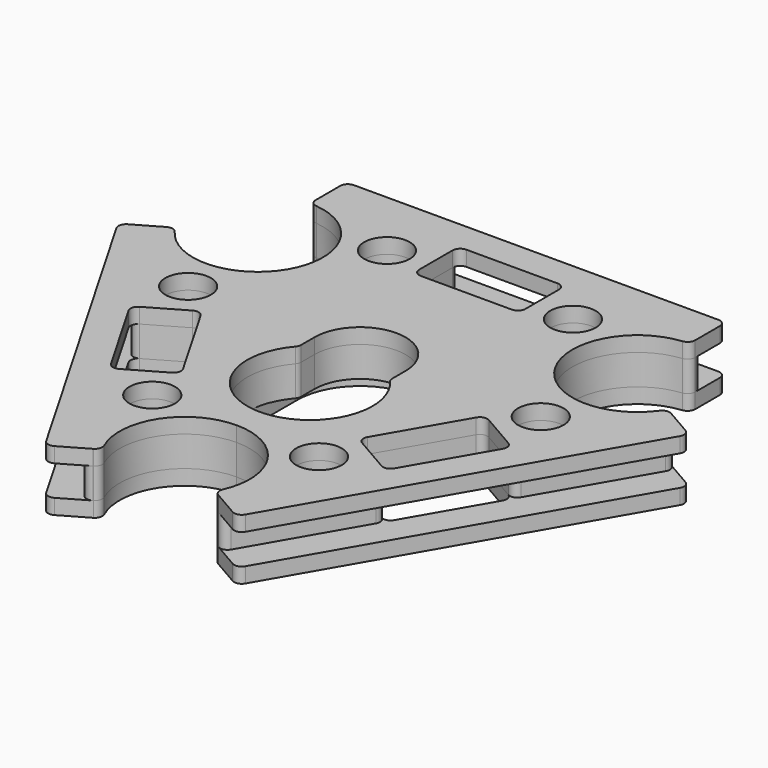
from build123d import *

# Parameters (mm, degrees)
F0_R     = 3
F1_DEPTH = 4
F2_R     = 3
F3_DEPTH = 2
F4_R     = 2.1
F5_DEPTH = 2


with BuildPart() as f1:
    # F0 (on Top) → F1 (new body)
    with BuildSketch(Plane.XY):
        with BuildLine():
            Line((-8, 25), (-24, 25))
            ThreePointArc((-24, 25), (-24.707107, 24.707107), (-25, 24))
            Line((-25, 24), (-25, 23.947589))
            ThreePointArc((-25, 23.947589), (-24.743147, 23.278461), (-24.104534, 22.953068))
            ThreePointArc((-24.104534, 22.953068), (-17.36741, 18.322728), (-17.581416, 10.150635))
            ThreePointArc((-17.581416, 10.150635), (-24.551653, 5.879255), (-31.930207, 9.398605))
            ThreePointArc((-31.930207, 9.398605), (-32.531312, 9.788963), (-33.239221, 9.67684))
            Line((-33.239221, 9.67684), (-33.28461, 9.650635))
            ThreePointArc((-33.28461, 9.650635), (-33.750536, 9.043429), (-33.650635, 8.28461))
            Line((-33.650635, 8.28461), (-25.650635, -5.571797))
            ThreePointArc((-25.650635, -5.571797), (-25.043429, -6.037723), (-24.28461, -5.937822))
            Line((-24.28461, -5.937822), (-19.52147, -3.187822))
            ThreePointArc((-19.52147, -3.187822), (-18.762651, -3.087922), (-18.155445, -3.553848))
            Line((-18.155445, -3.553848), (-15.155445, -8.75))
            Line((-15.155445, -8.75), (-12.155445, -13.946152))
            ThreePointArc((-12.155445, -13.946152), (-12.055544, -14.704971), (-12.52147, -15.312178))
            Line((-12.52147, -15.312178), (-17.28461, -18.062178))
            ThreePointArc((-17.28461, -18.062178), (-17.750536, -18.669384), (-17.650635, -19.428203))
            Line((-17.650635, -19.428203), (-9.650635, -33.28461))
            ThreePointArc((-9.650635, -33.28461), (-9.043429, -33.750536), (-8.28461, -33.650635))
            Line((-8.28461, -33.650635), (-8.239221, -33.62443))
            ThreePointArc((-8.239221, -33.62443), (-7.788165, -33.067424), (-7.825673, -32.351673))
            ThreePointArc((-7.825673, -32.351673), (-7.184243, -24.201982), (0, -20.30127))
            ThreePointArc((0, -20.30127), (7.184243, -24.201982), (7.825673, -32.351673))
            ThreePointArc((7.825673, -32.351673), (7.788165, -33.067424), (8.239221, -33.62443))
            Line((8.239221, -33.62443), (8.28461, -33.650635))
            ThreePointArc((8.28461, -33.650635), (9.043429, -33.750536), (9.650635, -33.28461))
            Line((9.650635, -33.28461), (17.650635, -19.428203))
            ThreePointArc((17.650635, -19.428203), (17.750536, -18.669384), (17.28461, -18.062178))
            Line((17.28461, -18.062178), (12.52147, -15.312178))
            ThreePointArc((12.52147, -15.312178), (12.055544, -14.704971), (12.155445, -13.946152))
            Line((12.155445, -13.946152), (15.155445, -8.75))
            Line((15.155445, -8.75), (18.155445, -3.553848))
            ThreePointArc((18.155445, -3.553848), (18.762651, -3.087922), (19.52147, -3.187822))
            Line((19.52147, -3.187822), (24.28461, -5.937822))
            ThreePointArc((24.28461, -5.937822), (25.043429, -6.037723), (25.650635, -5.571797))
            Line((25.650635, -5.571797), (33.650635, 8.28461))
            ThreePointArc((33.650635, 8.28461), (33.750536, 9.043429), (33.28461, 9.650635))
            Line((33.28461, 9.650635), (33.239221, 9.67684))
            ThreePointArc((33.239221, 9.67684), (32.531312, 9.788963), (31.930207, 9.398605))
            ThreePointArc((31.930207, 9.398605), (24.551653, 5.879255), (17.581416, 10.150635))
            ThreePointArc((17.581416, 10.150635), (17.36741, 18.322728), (24.104534, 22.953068))
            ThreePointArc((24.104534, 22.953068), (24.743147, 23.278461), (25, 23.947589))
            Line((25, 23.947589), (25, 24))
            ThreePointArc((25, 24), (24.707107, 24.707107), (24, 25))
            Line((24, 25), (8, 25))
            ThreePointArc((8, 25), (7.292893, 24.707107), (7, 24))
            Line((7, 24), (7, 18.5))
            ThreePointArc((7, 18.5), (6.707107, 17.792893), (6, 17.5))
            Line((6, 17.5), (0, 17.5))
            Line((0, 17.5), (-6, 17.5))
            ThreePointArc((-6, 17.5), (-6.707107, 17.792893), (-7, 18.5))
            Line((-7, 18.5), (-7, 24))
            ThreePointArc((-7, 24), (-7.292893, 24.707107), (-8, 25))
        make_face()
        with Locations((-10.980365, -20.483446)):
            Circle(F0_R, mode=Mode.SUBTRACT)
        with Locations((10.980365, -20.483446)):
            Circle(F0_R, mode=Mode.SUBTRACT)
        with BuildLine():
            ThreePointArc((-6, 0), (0, 6), (6, 0))
            Line((6, 0), (6, -2.203307))
            ThreePointArc((6, -2.203307), (6.062782, -2.55205), (6.243243, -2.857003))
            ThreePointArc((6.243243, -2.857003), (0, -16.5), (-6.243243, -2.857003))
            ThreePointArc((-6.243243, -2.857003), (-6.062782, -2.55205), (-6, -2.203307))
            Line((-6, -2.203307), (-6, 0))
        make_face(mode=Mode.SUBTRACT)
        with Locations((-23.229367, 0.732448)):
            Circle(F0_R, mode=Mode.SUBTRACT)
        with Locations((-12.249002, 19.750998)):
            Circle(F0_R, mode=Mode.SUBTRACT)
        with Locations((23.229367, 0.732448)):
            Circle(F0_R, mode=Mode.SUBTRACT)
        with Locations((12.249002, 19.750998)):
            Circle(F0_R, mode=Mode.SUBTRACT)
    extrude(amount=F1_DEPTH)


with BuildPart() as f3:
    # F2 (on face) → F3 (new body)
    with BuildSketch(Plane.XY.offset(4)):
        with BuildLine():
            ThreePointArc((-24.104534, 22.953068), (-17.36741, 18.322728), (-17.581416, 10.150635))
            ThreePointArc((-17.581416, 10.150635), (-24.551653, 5.879255), (-31.930207, 9.398605))
            ThreePointArc((-31.930207, 9.398605), (-31.930249, 9.398662), (-31.93029, 9.398719))
            ThreePointArc((-31.93029, 9.398719), (-32.531291, 9.789021), (-33.239084, 9.676919))
            Line((-33.239084, 9.676919), (-33.239221, 9.67684))
            Line((-33.239221, 9.67684), (-33.28461, 9.650635))
            ThreePointArc((-33.28461, 9.650635), (-33.750536, 9.043429), (-33.650635, 8.28461))
            Line((-33.650635, 8.28461), (-25.650635, -5.571797))
            ThreePointArc((-25.650635, -5.571797), (-25.043429, -6.037723), (-24.28461, -5.937822))
            Line((-24.28461, -5.937822), (-19.52147, -3.187822))
            ThreePointArc((-19.52147, -3.187822), (-18.762651, -3.087922), (-18.155445, -3.553848))
            Line((-18.155445, -3.553848), (-15.155445, -8.75))
            Line((-15.155445, -8.75), (-12.155445, -13.946152))
            ThreePointArc((-12.155445, -13.946152), (-12.055544, -14.704971), (-12.52147, -15.312178))
            Line((-12.52147, -15.312178), (-17.28461, -18.062178))
            ThreePointArc((-17.28461, -18.062178), (-17.750536, -18.669384), (-17.650635, -19.428203))
            Line((-17.650635, -19.428203), (-9.650635, -33.28461))
            ThreePointArc((-9.650635, -33.28461), (-9.043429, -33.750536), (-8.28461, -33.650635))
            Line((-8.28461, -33.650635), (-8.239221, -33.62443))
            Line((-8.239221, -33.62443), (-8.239084, -33.624351))
            ThreePointArc((-8.239084, -33.624351), (-7.788105, -33.067435), (-7.825615, -32.351802))
            ThreePointArc((-7.825615, -32.351802), (-7.825644, -32.351738), (-7.825673, -32.351673))
            ThreePointArc((-7.825673, -32.351673), (-7.184243, -24.201982), (0, -20.30127))
            ThreePointArc((0, -20.30127), (7.184243, -24.201982), (7.825673, -32.351673))
            ThreePointArc((7.825673, -32.351673), (7.825644, -32.351738), (7.825615, -32.351802))
            ThreePointArc((7.825615, -32.351802), (7.788105, -33.067435), (8.239084, -33.624351))
            Line((8.239084, -33.624351), (8.239221, -33.62443))
            Line((8.239221, -33.62443), (8.28461, -33.650635))
            ThreePointArc((8.28461, -33.650635), (9.043429, -33.750536), (9.650635, -33.28461))
            Line((9.650635, -33.28461), (17.650635, -19.428203))
            ThreePointArc((17.650635, -19.428203), (17.750536, -18.669384), (17.28461, -18.062178))
            Line((17.28461, -18.062178), (12.52147, -15.312178))
            ThreePointArc((12.52147, -15.312178), (12.055544, -14.704971), (12.155445, -13.946152))
            Line((12.155445, -13.946152), (15.155445, -8.75))
            Line((15.155445, -8.75), (18.155445, -3.553848))
            ThreePointArc((18.155445, -3.553848), (18.762651, -3.087922), (19.52147, -3.187822))
            Line((19.52147, -3.187822), (24.28461, -5.937822))
            ThreePointArc((24.28461, -5.937822), (25.043429, -6.037723), (25.650635, -5.571797))
            Line((25.650635, -5.571797), (33.650635, 8.28461))
            ThreePointArc((33.650635, 8.28461), (33.750536, 9.043429), (33.28461, 9.650635))
            Line((33.28461, 9.650635), (33.239221, 9.67684))
            Line((33.239221, 9.67684), (33.239084, 9.676919))
            ThreePointArc((33.239084, 9.676919), (32.531291, 9.789021), (31.93029, 9.398719))
            ThreePointArc((31.93029, 9.398719), (31.930249, 9.398662), (31.930207, 9.398605))
            ThreePointArc((31.930207, 9.398605), (24.551653, 5.879255), (17.581416, 10.150635))
            ThreePointArc((17.581416, 10.150635), (17.36741, 18.322728), (24.104534, 22.953068))
            ThreePointArc((24.104534, 22.953068), (24.104605, 22.953075), (24.104675, 22.953083))
            ThreePointArc((24.104675, 22.953083), (24.743186, 23.278414), (25, 23.947431))
            Line((25, 23.947431), (25, 23.947589))
            Line((25, 23.947589), (25, 24))
            ThreePointArc((25, 24), (24.707107, 24.707107), (24, 25))
            Line((24, 25), (8, 25))
            ThreePointArc((8, 25), (7.292893, 24.707107), (7, 24))
            Line((7, 24), (7, 18.5))
            ThreePointArc((7, 18.5), (6.707107, 17.792893), (6, 17.5))
            Line((6, 17.5), (0, 17.5))
            Line((0, 17.5), (-6, 17.5))
            ThreePointArc((-6, 17.5), (-6.707107, 17.792893), (-7, 18.5))
            Line((-7, 18.5), (-7, 24))
            ThreePointArc((-7, 24), (-7.292893, 24.707107), (-8, 25))
            Line((-8, 25), (-24, 25))
            ThreePointArc((-24, 25), (-24.707107, 24.707107), (-25, 24))
            Line((-25, 24), (-25, 23.947589))
            Line((-25, 23.947589), (-25, 23.947431))
            ThreePointArc((-25, 23.947431), (-24.743186, 23.278414), (-24.104675, 22.953083))
            ThreePointArc((-24.104675, 22.953083), (-24.104605, 22.953075), (-24.104534, 22.953068))
        make_face()
        with Locations((-10.980365, -20.483446)):
            Circle(F2_R, mode=Mode.SUBTRACT)
        with Locations((10.980365, -20.483446)):
            Circle(F2_R, mode=Mode.SUBTRACT)
        with BuildLine():
            ThreePointArc((-6, 0), (0, 6), (6, 0))
            Line((6, 0), (6, -2.203307))
            ThreePointArc((6, -2.203307), (6.062782, -2.55205), (6.243243, -2.857003))
            ThreePointArc((6.243243, -2.857003), (0, -16.5), (-6.243243, -2.857003))
            ThreePointArc((-6.243243, -2.857003), (-6.062782, -2.55205), (-6, -2.203307))
            Line((-6, -2.203307), (-6, 0))
        make_face(mode=Mode.SUBTRACT)
        with Locations((-23.229367, 0.732448)):
            Circle(F2_R, mode=Mode.SUBTRACT)
        with Locations((-12.249002, 19.750998)):
            Circle(F2_R, mode=Mode.SUBTRACT)
        with Locations((23.229367, 0.732448)):
            Circle(F2_R, mode=Mode.SUBTRACT)
        with Locations((12.249002, 19.750998)):
            Circle(F2_R, mode=Mode.SUBTRACT)
        with BuildLine():
            Line((-25, 28), (-25, 24))
            ThreePointArc((-25, 24), (-24.707107, 24.707107), (-24, 25))
            Line((-24, 25), (-8, 25))
            ThreePointArc((-8, 25), (-7.292893, 24.707107), (-7, 24))
            ThreePointArc((-7, 24), (-6.707107, 24.707107), (-6, 25))
            Line((-6, 25), (0, 25))
            Line((0, 25), (6, 25))
            ThreePointArc((6, 25), (6.707107, 24.707107), (7, 24))
            ThreePointArc((7, 24), (7.292893, 24.707107), (8, 25))
            Line((8, 25), (24, 25))
            ThreePointArc((24, 25), (24.707107, 24.707107), (25, 24))
            Line((25, 24), (25, 28))
            ThreePointArc((25, 28), (24.707107, 28.707107), (24, 29))
            Line((24, 29), (0, 29))
            Line((0, 29), (-24, 29))
            ThreePointArc((-24, 29), (-24.707107, 28.707107), (-25, 28))
        make_face()
        with BuildLine():
            ThreePointArc((-33.650635, 8.28461), (-33.750536, 9.043429), (-33.28461, 9.650635))
            Line((-33.28461, 9.650635), (-36.748711, 7.650635))
            ThreePointArc((-36.748711, 7.650635), (-37.214637, 7.043429), (-37.114737, 6.28461))
            Line((-37.114737, 6.28461), (-25.114737, -14.5))
            Line((-25.114737, -14.5), (-13.114737, -35.28461))
            ThreePointArc((-13.114737, -35.28461), (-12.50753, -35.750536), (-11.748711, -35.650635))
            Line((-11.748711, -35.650635), (-8.28461, -33.650635))
            ThreePointArc((-8.28461, -33.650635), (-9.043429, -33.750536), (-9.650635, -33.28461))
            Line((-9.650635, -33.28461), (-17.650635, -19.428203))
            ThreePointArc((-17.650635, -19.428203), (-17.750536, -18.669384), (-17.28461, -18.062178))
            ThreePointArc((-17.28461, -18.062178), (-18.043429, -18.162078), (-18.650635, -17.696152))
            Line((-18.650635, -17.696152), (-21.650635, -12.5))
            Line((-21.650635, -12.5), (-24.650635, -7.303848))
            ThreePointArc((-24.650635, -7.303848), (-24.750536, -6.545029), (-24.28461, -5.937822))
            ThreePointArc((-24.28461, -5.937822), (-25.043429, -6.037723), (-25.650635, -5.571797))
            Line((-25.650635, -5.571797), (-33.650635, 8.28461))
        make_face()
        with BuildLine():
            Line((36.748711, 7.650635), (33.28461, 9.650635))
            ThreePointArc((33.28461, 9.650635), (33.750536, 9.043429), (33.650635, 8.28461))
            Line((33.650635, 8.28461), (25.650635, -5.571797))
            ThreePointArc((25.650635, -5.571797), (25.043429, -6.037723), (24.28461, -5.937822))
            ThreePointArc((24.28461, -5.937822), (24.750536, -6.545029), (24.650635, -7.303848))
            Line((24.650635, -7.303848), (21.650635, -12.5))
            Line((21.650635, -12.5), (18.650635, -17.696152))
            ThreePointArc((18.650635, -17.696152), (18.043429, -18.162078), (17.28461, -18.062178))
            ThreePointArc((17.28461, -18.062178), (17.750536, -18.669384), (17.650635, -19.428203))
            Line((17.650635, -19.428203), (9.650635, -33.28461))
            ThreePointArc((9.650635, -33.28461), (9.043429, -33.750536), (8.28461, -33.650635))
            Line((8.28461, -33.650635), (11.748711, -35.650635))
            ThreePointArc((11.748711, -35.650635), (12.50753, -35.750536), (13.114737, -35.28461))
            Line((13.114737, -35.28461), (25.114737, -14.5))
            Line((25.114737, -14.5), (37.114737, 6.28461))
            ThreePointArc((37.114737, 6.28461), (37.214637, 7.043429), (36.748711, 7.650635))
        make_face()
    extrude(amount=F3_DEPTH)


with BuildPart() as f5:
    # F4 (on Top) → F5 (new body)
    with BuildSketch(Plane.XY):
        with BuildLine():
            ThreePointArc((-24.104534, 22.953068), (-17.36741, 18.322728), (-17.581416, 10.150635))
            ThreePointArc((-17.581416, 10.150635), (-24.551653, 5.879255), (-31.930207, 9.398605))
            ThreePointArc((-31.930207, 9.398605), (-32.531312, 9.788963), (-33.239221, 9.67684))
            Line((-33.239221, 9.67684), (-36.748711, 7.650635))
            ThreePointArc((-36.748711, 7.650635), (-37.214637, 7.043429), (-37.114737, 6.28461))
            Line((-37.114737, 6.28461), (-25.114737, -14.5))
            Line((-25.114737, -14.5), (-13.114737, -35.28461))
            ThreePointArc((-13.114737, -35.28461), (-12.50753, -35.750536), (-11.748711, -35.650635))
            Line((-11.748711, -35.650635), (-8.239221, -33.62443))
            ThreePointArc((-8.239221, -33.62443), (-7.788165, -33.067424), (-7.825673, -32.351673))
            ThreePointArc((-7.825673, -32.351673), (-7.184243, -24.201982), (0, -20.30127))
            ThreePointArc((0, -20.30127), (7.184243, -24.201982), (7.825673, -32.351673))
            ThreePointArc((7.825673, -32.351673), (7.788165, -33.067424), (8.239221, -33.62443))
            Line((8.239221, -33.62443), (11.748711, -35.650635))
            ThreePointArc((11.748711, -35.650635), (12.50753, -35.750536), (13.114737, -35.28461))
            Line((13.114737, -35.28461), (25.114737, -14.5))
            Line((25.114737, -14.5), (37.114737, 6.28461))
            ThreePointArc((37.114737, 6.28461), (37.214637, 7.043429), (36.748711, 7.650635))
            Line((36.748711, 7.650635), (33.239221, 9.67684))
            ThreePointArc((33.239221, 9.67684), (32.531312, 9.788963), (31.930207, 9.398605))
            ThreePointArc((31.930207, 9.398605), (24.551653, 5.879255), (17.581416, 10.150635))
            ThreePointArc((17.581416, 10.150635), (17.36741, 18.322728), (24.104534, 22.953068))
            ThreePointArc((24.104534, 22.953068), (24.743147, 23.278461), (25, 23.947589))
            Line((25, 23.947589), (25, 28))
            ThreePointArc((25, 28), (24.707107, 28.707107), (24, 29))
            Line((24, 29), (0, 29))
            Line((0, 29), (-24, 29))
            ThreePointArc((-24, 29), (-24.707107, 28.707107), (-25, 28))
            Line((-25, 28), (-25, 23.947589))
            ThreePointArc((-25, 23.947589), (-24.743147, 23.278461), (-24.104534, 22.953068))
        make_face()
        with Locations((-10.980365, -20.483446)):
            Circle(F4_R, mode=Mode.SUBTRACT)
        with BuildLine():
            ThreePointArc((-19.52147, -3.187822), (-18.762651, -3.087922), (-18.155445, -3.553848))
            Line((-18.155445, -3.553848), (-15.155445, -8.75))
            Line((-15.155445, -8.75), (-12.155445, -13.946152))
            ThreePointArc((-12.155445, -13.946152), (-12.055544, -14.704971), (-12.52147, -15.312178))
            Line((-12.52147, -15.312178), (-17.28461, -18.062178))
            ThreePointArc((-17.28461, -18.062178), (-18.043429, -18.162078), (-18.650635, -17.696152))
            Line((-18.650635, -17.696152), (-21.650635, -12.5))
            Line((-21.650635, -12.5), (-24.650635, -7.303848))
            ThreePointArc((-24.650635, -7.303848), (-24.750536, -6.545029), (-24.28461, -5.937822))
            Line((-24.28461, -5.937822), (-19.52147, -3.187822))
        make_face(mode=Mode.SUBTRACT)
        with BuildLine():
            ThreePointArc((-8.25, 0), (0, 8.25), (8.25, 0))
            Line((8.25, 0), (8.25, -8.25))
            ThreePointArc((8.25, -8.25), (0, -16.5), (-8.25, -8.25))
            Line((-8.25, -8.25), (-8.25, 0))
        make_face(mode=Mode.SUBTRACT)
        with Locations((10.980365, -20.483446)):
            Circle(F4_R, mode=Mode.SUBTRACT)
        with BuildLine():
            ThreePointArc((12.52147, -15.312178), (12.055544, -14.704971), (12.155445, -13.946152))
            Line((12.155445, -13.946152), (15.155445, -8.75))
            Line((15.155445, -8.75), (18.155445, -3.553848))
            ThreePointArc((18.155445, -3.553848), (18.762651, -3.087922), (19.52147, -3.187822))
            Line((19.52147, -3.187822), (24.28461, -5.937822))
            ThreePointArc((24.28461, -5.937822), (24.750536, -6.545029), (24.650635, -7.303848))
            Line((24.650635, -7.303848), (21.650635, -12.5))
            Line((21.650635, -12.5), (18.650635, -17.696152))
            ThreePointArc((18.650635, -17.696152), (18.043429, -18.162078), (17.28461, -18.062178))
            Line((17.28461, -18.062178), (12.52147, -15.312178))
        make_face(mode=Mode.SUBTRACT)
        with Locations((-23.229367, 0.732448)):
            Circle(F4_R, mode=Mode.SUBTRACT)
        with Locations((-12.249002, 19.750998)):
            Circle(F4_R, mode=Mode.SUBTRACT)
        with BuildLine():
            Line((-6, 25), (0, 25))
            Line((0, 25), (6, 25))
            ThreePointArc((6, 25), (6.707107, 24.707107), (7, 24))
            Line((7, 24), (7, 18.5))
            ThreePointArc((7, 18.5), (6.707107, 17.792893), (6, 17.5))
            Line((6, 17.5), (0, 17.5))
            Line((0, 17.5), (-6, 17.5))
            ThreePointArc((-6, 17.5), (-6.707107, 17.792893), (-7, 18.5))
            Line((-7, 18.5), (-7, 24))
            ThreePointArc((-7, 24), (-6.707107, 24.707107), (-6, 25))
        make_face(mode=Mode.SUBTRACT)
        with Locations((23.229367, 0.732448)):
            Circle(F4_R, mode=Mode.SUBTRACT)
        with Locations((12.249002, 19.750998)):
            Circle(F4_R, mode=Mode.SUBTRACT)
    extrude(amount=-F5_DEPTH)


solid = Compound([f1.part, f3.part, f5.part])
